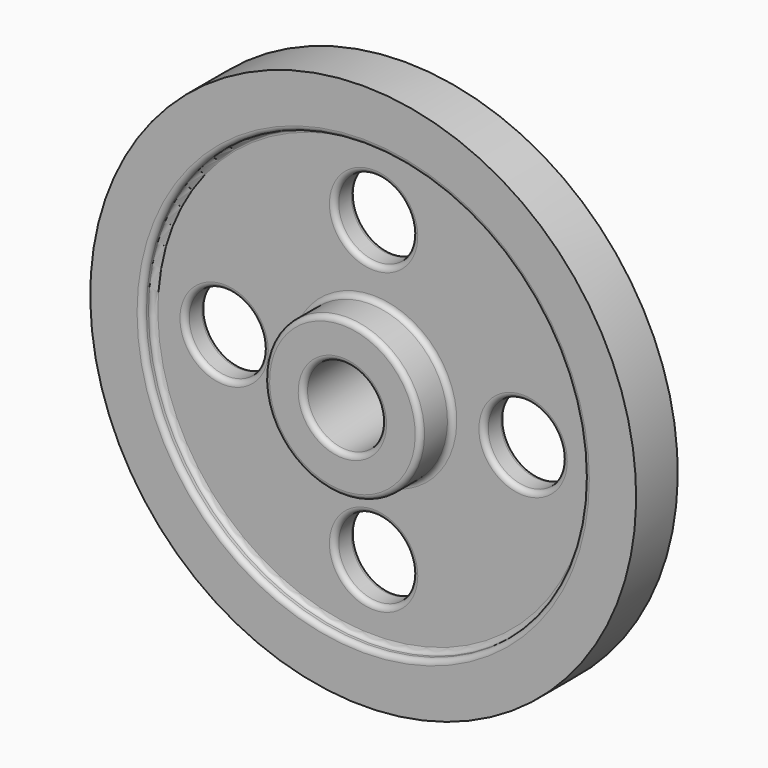
from build123d import *

# Parameters (mm, degrees)
F2_R     = 19.05
F3_DEPTH = 25.4
F4_R     = 2.54
F5_R     = 2.54


with BuildPart() as f1:
    # F0 (on Right) → F1 (revolve)
    with BuildSketch(Plane.YZ):
        Polygon((25.4, 38.1), (6.35, 38.1), (6.35, 107.95), (12.7, 107.95), (12.7, 133.35), (0, 133.35), (-12.7, 133.35), (-12.7, 107.95), (-6.35, 107.95), (-6.35, 38.1), (-25.4, 38.1), (-25.4, 19.05), (25.4, 19.05), align=None)
    revolve(axis=Axis((0, -3.175, 0), (0, 1, 0)))

    # F2 (on face) → F3 (cut)
    with BuildSketch(Plane.XZ.offset(6.35)):
        with BuildLine():
            ThreePointArc((19.05, 73.025), (-13.4703841816, 86.4953841816), (0, 53.975))
            ThreePointArc((0, 53.975), (13.4703841816, 59.5546158184), (19.05, 73.025))
        make_face()
        with Locations((-73.025, 0)):
            Circle(F2_R)
        with Locations((0, -73.025)):
            Circle(F2_R)
        with Locations((73.025, 0)):
            Circle(F2_R)
    extrude(amount=-F3_DEPTH, mode=Mode.SUBTRACT)

    # F4
    f4_edges = [f1.edges().sort_by_distance(p)[0] for p in [
        (0, -12.7, -107.95),
        (0, -6.35, -107.95),
        (0, -9.525, 107.95),
        (-92.075, -6.35, 0),
        (-19.05, -6.35, -73.025),
        (0, -6.35, -38.1),
        (0, -6.35, 92.075),
        (53.975, -6.35, 0),
        (0, -25.4, -38.1),
        (0, -15.875, 38.1),
        (0, -25.4, -19.05),
    ]]
    fillet(f4_edges, radius=F4_R)

    # F5
    f5_edges = [f1.edges().sort_by_distance(p)[0] for p in [
        (0, 6.35, -107.95),
        (0, 12.7, -107.95),
        (0, 9.525, 107.95),
        (-92.075, 6.35, 0),
        (0, 6.35, 92.075),
        (0, 6.35, -38.1),
        (-19.05, 6.35, -73.025),
        (53.975, 6.35, 0),
        (0, 25.4, -38.1),
        (0, 15.875, 38.1),
        (0, 25.4, -19.05),
    ]]
    fillet(f5_edges, radius=F5_R)


solid = f1.part
